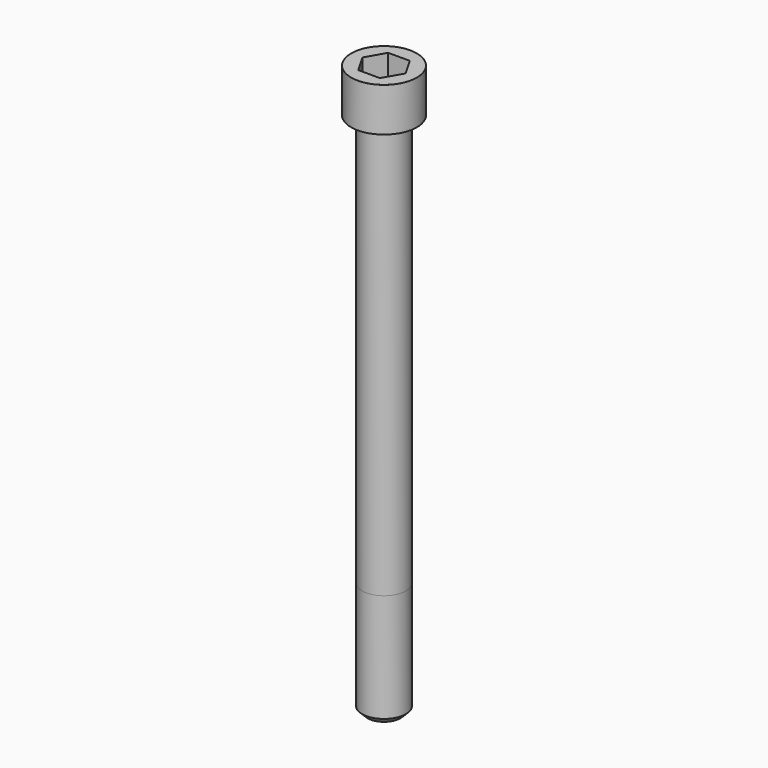
from build123d import *

# Parameters (mm, degrees)
POCKET_DEPTH = 17.1


with BuildPart() as part:
    # Sketch → Revolve (revolve)
    with BuildSketch(Plane.YZ):
        with BuildLine():
            Line((9.999, 0), (15, 0))
            Line((15, 0), (15, 19.97229))
            ThreePointArc((15, 19.97229), (14.991884, 19.991884), (14.97229, 20))
            Line((14.97229, 20), (0, 20))
            Line((0, -240), (0, 20))
            Line((7.5, -240), (0, -240))
            Line((10, -237.5), (7.5, -240))
            Line((10, -188), (10, -237.5))
            Line((9.999, 0), (10, -188))
        make_face()
    revolve(axis=Axis((0, 0, 0), (0, 0, 1)))

    # Sketch001 → Pocket (cut)
    with BuildSketch(Plane.XY.offset(20)):
        Polygon((9.87269, 0), (4.936345, 8.55), (-4.936345, 8.55), (-9.87269, 0), (-4.936345, -8.55), (4.936345, -8.55), align=None)
    extrude(amount=-POCKET_DEPTH, mode=Mode.SUBTRACT)


solid = part.part
